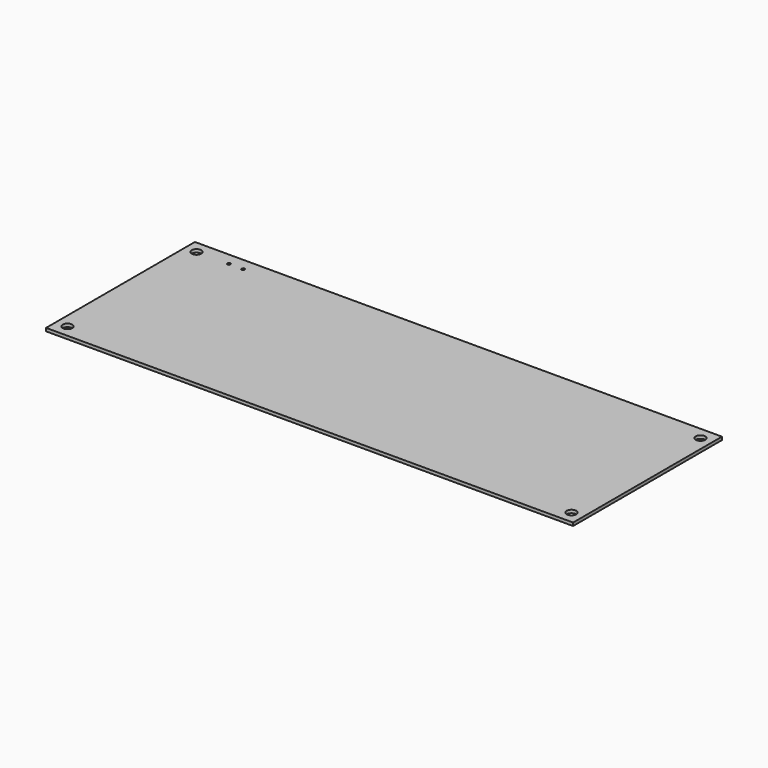
from build123d import *

# Parameters (mm, degrees)
F0_W     = 170
F0_H     = 60
F1_DEPTH = 1
F2_D     = 3.1
F3_D     = 1


with BuildPart() as f1:
    # F0 (on Top) → F1 (new body)
    with BuildSketch(Plane.XY):
        Rectangle(F0_W, F0_H)
    extrude(amount=-F1_DEPTH)

    # F2 (through all)
    with Locations(Plane.XY):
        with Locations((-81.28, 26), (-81.28, -26), (81.28, 26), (81.28, -26)):
            Hole(F2_D / 2)

    # F3 (through all)
    with Locations(Plane.XY):
        with Locations((-70.865646, 26), (-66.242307, 26)):
            Hole(F3_D / 2)


solid = f1.part
